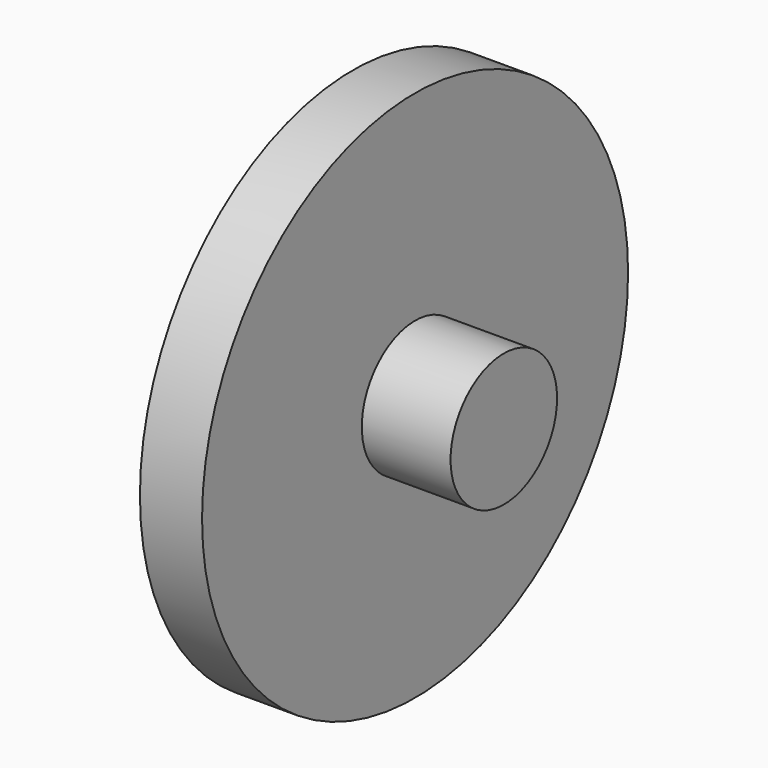
from build123d import *

# Parameters (mm, degrees)
F0_R     = 60.000002
F1_DEPTH = 14
F2_R     = 15
F3_DEPTH = 20


with BuildPart() as f1:
    # F0 (on Right) → F1 (new body)
    with BuildSketch(Plane.YZ):
        with Locations((-2e-06, 0.146154)):
            Circle(F0_R)
    extrude(amount=F1_DEPTH)

    # F2 (on face) → F3 (join)
    with BuildSketch(Plane.YZ.offset(14)):
        Circle(F2_R)
    extrude(amount=F3_DEPTH)


solid = f1.part
